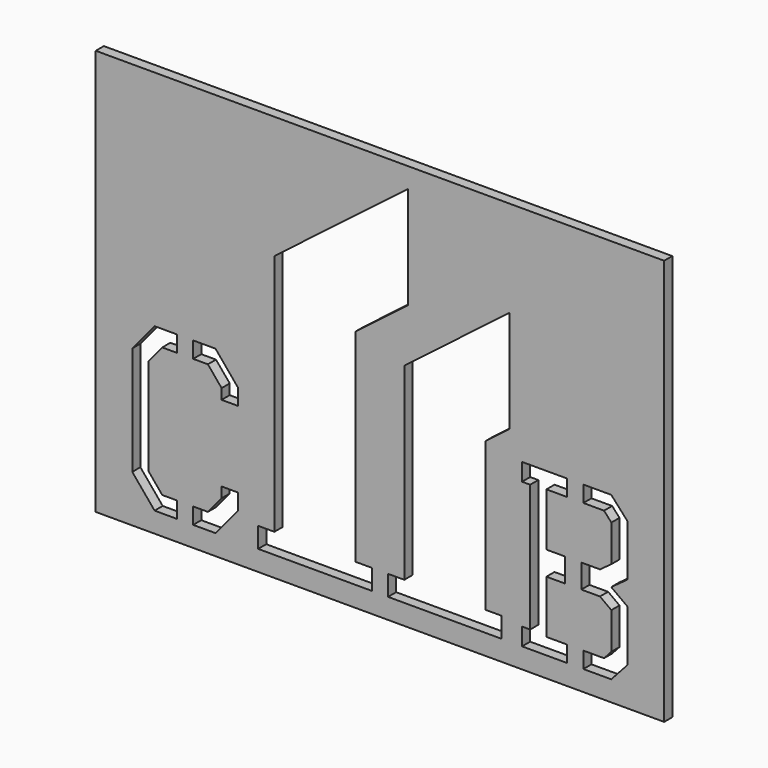
from build123d import *

# Parameters (mm, degrees)
F0_W     = 177.8
F0_H     = 127
F1_DEPTH = 3.175
F3_DEPTH = 3.175
F5_DEPTH = 3.175


with BuildPart() as f1:
    # F0 (on Front) → F1 (new body)
    with BuildSketch(Plane.XZ):
        Rectangle(F0_W, F0_H)
    extrude(amount=-F1_DEPTH)

    # F2 (on face) → F3 (cut, through all)
    with BuildSketch(Plane.XZ):
        Polygon((-38.1, -50.8), (-38.1, -57.15), (-2.54, -57.15), (-2.54, -50.8), (-7.62, -50.8), (-33.02, -50.8), align=None)
        Polygon((-33.02, 25.162934), (-33.02, -50.8), (-7.62, -50.8), (-7.62, 12.629322), (8.708571, 25.146), (8.708571, 57.15), align=None)
        Polygon((2.54, -57.15), (38.1, -57.15), (38.1, -50.8), (33.02, -50.8), (7.62, -50.8), (2.54, -50.8), align=None)
        Polygon((7.62, -50.8), (33.02, -50.8), (33.02, -4.329412), (40.47873, 1.388083), (40.47873, 33.392083), (7.62, 8.2042), align=None)
    extrude(amount=-F3_DEPTH, mode=Mode.SUBTRACT)

    # F4 (on face) → F5 (cut, through all)
    with BuildSketch(Plane.XZ):
        Polygon((-77.47, -14.746419), (-77.47, -31.75), (-77.47, -48.753581), (-70.485, -57.15), (-63.5, -57.15), (-63.5, -52.07), (-68.103037, -52.07), (-72.39, -46.916795), (-72.39, -31.75), (-72.39, -16.583205), (-68.103037, -11.43), (-63.5, -11.43), (-63.5, -6.35), (-70.485, -6.35), align=None)
        Polygon((-44.45, -14.746419), (-51.435, -6.35), (-58.42, -6.35), (-58.42, -11.43), (-53.816963, -11.43), (-49.53, -16.583205), (-49.53, -19.826419), (-44.45, -19.826419), align=None)
        Polygon((-58.42, -57.15), (-51.435, -57.15), (-44.45, -48.753581), (-44.45, -43.673581), (-49.53, -43.673581), (-49.53, -46.916795), (-53.816963, -52.07), (-58.42, -52.07), align=None)
        Polygon((58.547, -6.35), (44.45, -6.35), (44.45, -11.811), (46.99, -11.811), (46.99, -31.75), (46.99, -51.689), (44.45, -51.689), (44.45, -57.15), (58.547, -57.15), (58.547, -52.07), (52.07, -52.07), (52.07, -35.478037), (57.912, -35.478037), (57.912, -28.021963), (52.07, -28.021963), (52.07, -11.43), (58.547, -11.43), align=None)
        Polygon((77.47, -12.002101), (72.359407, -6.35), (63.627, -6.35), (63.627, -11.43), (70.104, -11.43), (72.39, -13.95822), (72.39, -25.424098), (68.834, -28.021963), (62.992, -28.021963), (62.992, -35.478037), (68.834, -35.478037), (72.39, -38.075902), (72.39, -49.54178), (70.104, -52.07), (63.627, -52.07), (63.627, -57.15), (72.359407, -57.15), (77.47, -51.497899), (77.47, -35.495899), (72.342551, -31.75), (77.47, -28.004101), align=None)
    extrude(amount=-F5_DEPTH, mode=Mode.SUBTRACT)


solid = f1.part
